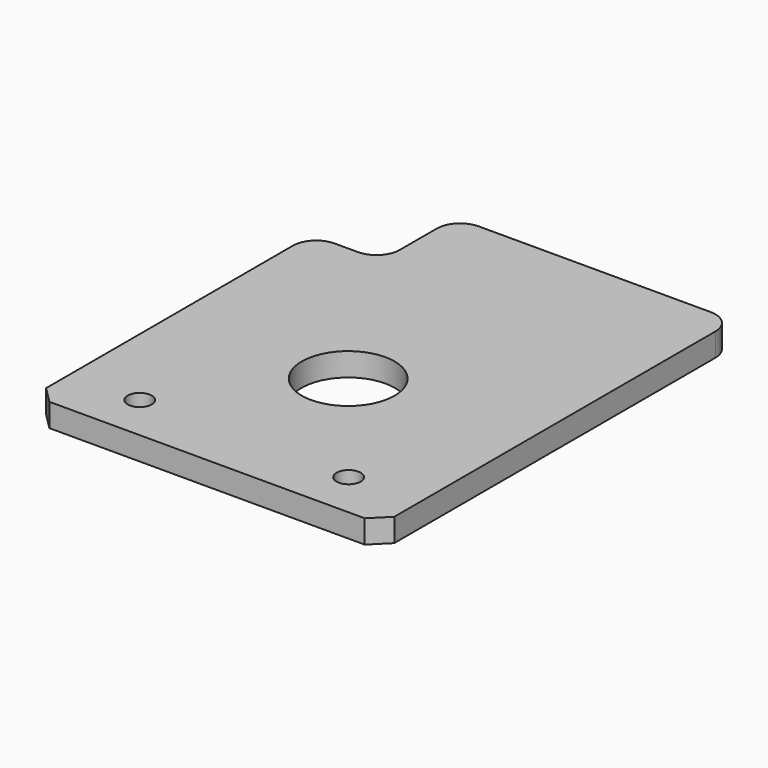
from build123d import *

# Parameters (mm, degrees)
F0_R     = 2.6
F0_R_2   = 10
F1_DEPTH = 5


with BuildPart() as f1:
    # F0 (on Top) → F1 (new body)
    with BuildSketch(Plane.XY):
        with BuildLine():
            Line((-33.964466, -47.5), (33.964466, -47.5))
            Line((33.964466, -47.5), (37.5, -43.964466))
            Line((37.5, -43.964466), (37.5, 42.5))
            ThreePointArc((37.5, 42.5), (36.035534, 46.035534), (32.5, 47.5))
            Line((32.5, 47.5), (-17.5, 47.5))
            ThreePointArc((-17.5, 47.5), (-21.035534, 46.035534), (-22.5, 42.5))
            Line((-22.5, 42.5), (-22.5, 32.5))
            ThreePointArc((-22.5, 32.5), (-23.964466, 28.964466), (-27.5, 27.5))
            Line((-27.5, 27.5), (-32.5, 27.5))
            ThreePointArc((-32.5, 27.5), (-36.035534, 26.035534), (-37.5, 22.5))
            Line((-37.5, 22.5), (-37.5, -43.964466))
            Line((-37.5, -43.964466), (-33.964466, -47.5))
        make_face()
        with Locations((-22.5, -37.5)):
            Circle(F0_R, mode=Mode.SUBTRACT)
        with Locations((22.5, -37.5)):
            Circle(F0_R, mode=Mode.SUBTRACT)
        with Locations((0, -9.5)):
            Circle(F0_R_2, mode=Mode.SUBTRACT)
    extrude(amount=F1_DEPTH)


solid = f1.part
